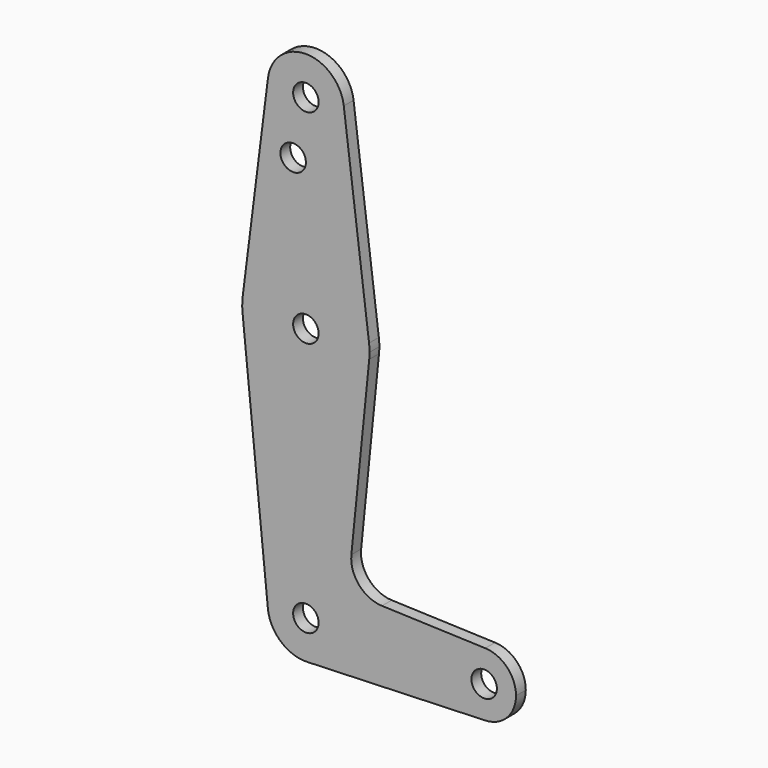
from build123d import *

# Parameters (mm, degrees)
F0_R     = 3.175
F1_DEPTH = 3.048


with BuildPart() as f1:
    # F0 (on Front) → F1 (new body)
    with BuildSketch(Plane.XZ):
        with BuildLine():
            ThreePointArc((15.795426, -1.5875), (15.855094, -0.794747), (15.875, 0))
            ThreePointArc((15.875, 0), (15.843841, 0.994139), (15.750488, 1.984375))
            ThreePointArc((15.750488, 1.984375), (0, 15.875), (-15.750488, 1.984375))
            ThreePointArc((-15.750488, 1.984375), (-15.873744, 0.199705), (-15.795426, -1.5875))
            ThreePointArc((-15.795426, -1.5875), (0, -15.875), (15.795426, -1.5875))
        make_face()
        Circle(F0_R, mode=Mode.SUBTRACT)
        with BuildLine():
            ThreePointArc((-15.750488, 1.984375), (0, 15.875), (15.750488, 1.984375))
            Line((15.750488, 1.984375), (9.450293, 51.990625))
            ThreePointArc((9.450293, 51.990625), (9.506305, 51.396483), (9.525, 50.8))
            ThreePointArc((9.525, 50.8), (-0.596483, 41.293695), (-9.450293, 51.990625))
            Line((-9.450293, 51.990625), (-15.750488, 1.984375))
        make_face()
        with Locations((-3.175, 36.5252)):
            Circle(F0_R, mode=Mode.SUBTRACT)
        with BuildLine():
            Line((11.341187, -45.906618), (15.795426, -1.5875))
            ThreePointArc((15.795426, -1.5875), (0, -15.875), (-15.795426, -1.5875))
            Line((-15.795426, -1.5875), (-9.477255, -64.4525))
            ThreePointArc((-9.477255, -64.4525), (-0.476848, -53.986944), (9.525, -63.5))
            ThreePointArc((9.525, -63.5), (6.854408, -70.113827), (0.340179, -73.018923))
            Line((0.340179, -73.018923), (44.733482, -71.432436))
            ThreePointArc((44.733482, -71.432436), (36.5125, -63.5), (44.733482, -55.567564))
            Line((44.733482, -55.567564), (18.9676, -54.646766))
            ThreePointArc((18.9676, -54.646766), (13.2612, -51.928641), (11.341187, -45.906618))
        make_face()
        with BuildLine():
            ThreePointArc((9.525, 50.8), (9.506305, 51.396483), (9.450293, 51.990625))
            ThreePointArc((9.450293, 51.990625), (0, 60.325), (-9.450293, 51.990625))
            ThreePointArc((-9.450293, 51.990625), (-0.596483, 41.293695), (9.525, 50.8))
        make_face()
        with Locations((0, 50.8)):
            Circle(F0_R, mode=Mode.SUBTRACT)
        with BuildLine():
            ThreePointArc((9.525, -63.5), (-0.476848, -53.986944), (-9.477255, -64.4525))
            ThreePointArc((-9.477255, -64.4525), (-6.262383, -70.67692), (0.340179, -73.018923))
            ThreePointArc((0.340179, -73.018923), (6.854408, -70.113827), (9.525, -63.5))
        make_face()
        with Locations((0, -63.5)):
            Circle(F0_R, mode=Mode.SUBTRACT)
        with BuildLine():
            ThreePointArc((52.3875, -63.5), (50.162007, -57.988477), (44.733482, -55.567564))
            ThreePointArc((44.733482, -55.567564), (36.5125, -63.5), (44.733482, -71.432436))
            ThreePointArc((44.733482, -71.432436), (50.162007, -69.011523), (52.3875, -63.5))
        make_face()
        with Locations((44.45, -63.5)):
            Circle(F0_R, mode=Mode.SUBTRACT)
    extrude(amount=F1_DEPTH)


solid = f1.part
